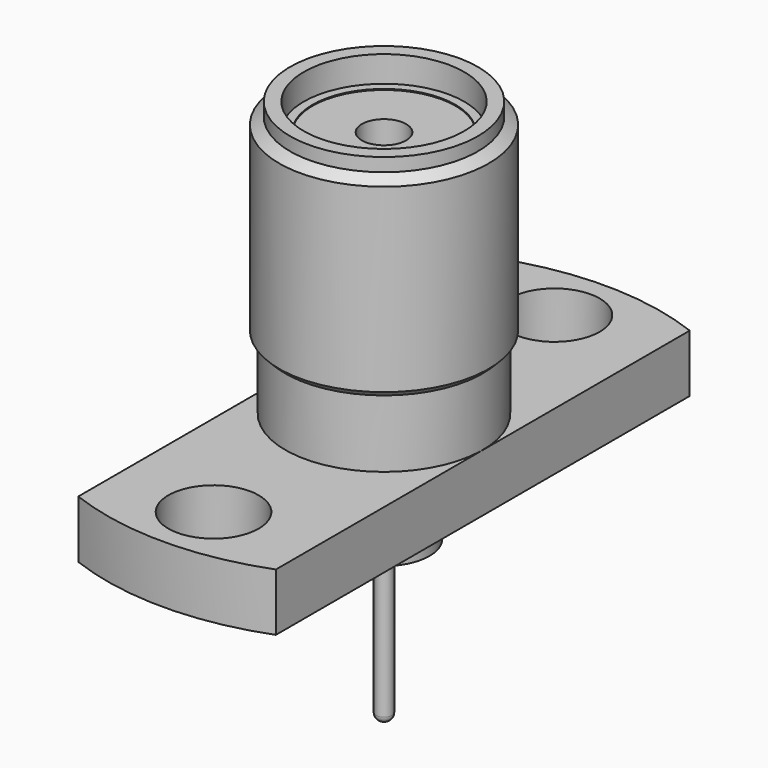
from build123d import *

# Parameters (mm, degrees)
SKETCH_R          = 1.2954
SKETCH_R_2        = 2.3
PAD_DEPTH         = 1.651
SKETCH002_R       = 2.74
SKETCH002_R_2     = 1.91
POCKET_DEPTH      = 0.5
SKETCH003_R       = 2.05
SKETCH003_R_2     = 0.635
PAD001_DEPTH      = 8.75
SKETCH004_R       = 1.305
SKETCH004_R_2     = 0.23
PAD002_DEPTH      = 1.52
SKETCH005_R       = 0.23
PAD003_DEPTH      = 1.83
PAD003_DEPTH_BACK = 6.09
FILLET_R          = 0.2


with BuildPart() as body:
    # Sketch → Pad (new body)
    with BuildSketch(Plane.XY):
        with BuildLine():
            Line((-2.8321, 7.41506), (-2.8321, -7.41506))
            ThreePointArc((-2.8321, -7.41506), (0, -7.9375), (2.8321, -7.41506))
            Line((2.8321, 7.41506), (2.8321, -7.41506))
            ThreePointArc((2.8321, 7.41506), (0, 7.9375), (-2.8321, 7.41506))
        make_face()
        with Locations((0, 6.1087)):
            Circle(SKETCH_R, mode=Mode.SUBTRACT)
        with Locations((0, -6.1087)):
            Circle(SKETCH_R, mode=Mode.SUBTRACT)
        Circle(SKETCH_R_2, mode=Mode.SUBTRACT)
    extrude(amount=PAD_DEPTH)

    # Sketch002 → Pocket (cut)
    with BuildSketch(Plane.XY):
        Circle(SKETCH002_R)
        Circle(SKETCH002_R_2, mode=Mode.SUBTRACT)
    extrude(amount=POCKET_DEPTH, mode=Mode.SUBTRACT)

    # Sketch001 → Revolution (revolve)
    with BuildSketch(Plane.YZ):
        Polygon((2.829161, 1.086815), (2.829161, 3.579748), (3.003812, 3.754399), (3.003812, 8.938169), (2.6924, 9.14224), (2.6924, 9.525), (2.2987, 9.525), (2.2987, 8.777293), (2.05, 8.777293), (2.05, 1.086815), align=None)
    revolve(axis=Axis((0, 0, 0), (0, 0, 1)))

    # Sketch003 → Pad001 (join)
    with BuildSketch(Plane.XY):
        Circle(SKETCH003_R)
        Circle(SKETCH003_R_2, mode=Mode.SUBTRACT)
    extrude(amount=PAD001_DEPTH)


with BuildPart() as body001:
    # Sketch004 → Pad002 (new body)
    with BuildSketch(Plane.XY):
        Circle(SKETCH004_R)
        Circle(SKETCH004_R_2, mode=Mode.SUBTRACT)
    extrude(amount=-PAD002_DEPTH)

    # Sketch005 → Pad003 (join, two sides)
    with BuildSketch(Plane.XY) as pad003_sk:
        Circle(SKETCH005_R)
    extrude(amount=PAD003_DEPTH)
    extrude(pad003_sk.sketch, amount=-PAD003_DEPTH_BACK)

    # Fillet
    fillet_edges = [body001.edges().sort_by_distance(p)[0] for p in [
        (-0.23, 0, -6.09),
        (-0.23, 0, 1.83),
    ]]
    fillet(fillet_edges, radius=FILLET_R)


solid = Compound([body.part, body001.part])
